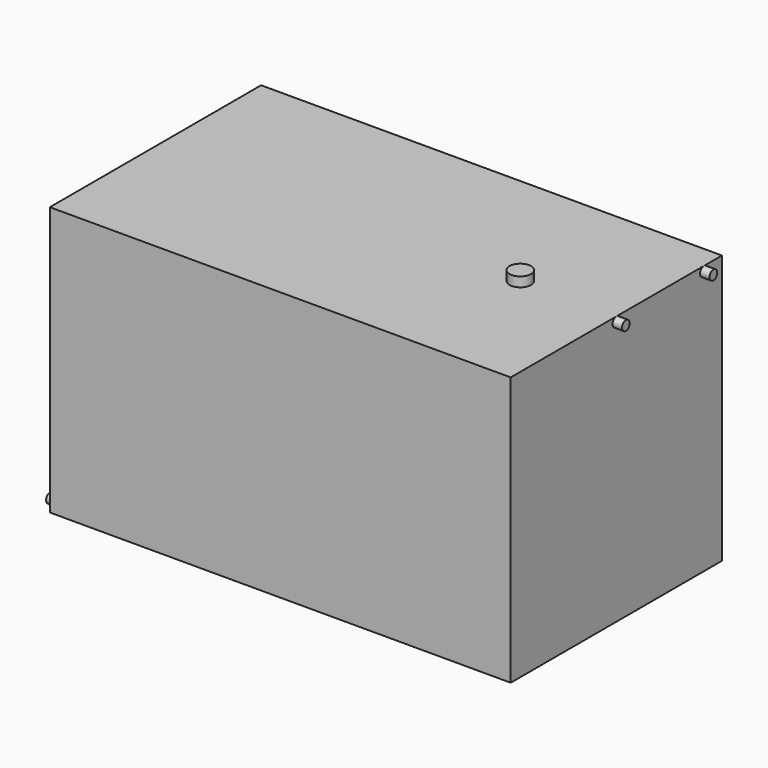
from build123d import *

# Parameters (mm, degrees)
F0_W     = 609.6
F0_H     = 349.25
F1_DEPTH = 355.6
F3_DEPTH = 12.7
F4_R     = 6.35
F5_DEPTH = 12.7
F6_R     = 6.35
F7_DEPTH = 12.7


with BuildPart() as f1:
    # F0 (on Top) → F1 (new body)
    with BuildSketch(Plane.XY):
        with Locations((-304.8, 174.625)):
            Rectangle(F0_W, F0_H)
    extrude(amount=F1_DEPTH)

    # F2 (on face) → F3 (join)
    with BuildSketch(Plane.XY.offset(355.6)):
        with BuildLine():
            ThreePointArc((-141.2875, 174.625), (-127, 160.3375), (-112.7125, 174.625))
            ThreePointArc((-112.7125, 174.625), (-127, 188.9125), (-141.2875, 174.625))
        make_face()
    extrude(amount=F3_DEPTH)

    # F4 (on face) → F5 (join)
    with BuildSketch(Plane.YZ):
        with Locations((174.625, 349.25)):
            Circle(F4_R)
        with Locations((319.281042, 349.25)):
            Circle(F4_R)
    extrude(amount=F5_DEPTH)

    # F6 (on face) → F7 (join)
    with BuildSketch(Plane(origin=(-609.6, 0, 0), x_dir=(0, -1, 0), z_dir=(-1, 0, 0))):
        with Locations((-15.958672, 6.35)):
            Circle(F6_R)
    extrude(amount=F7_DEPTH)


solid = f1.part
